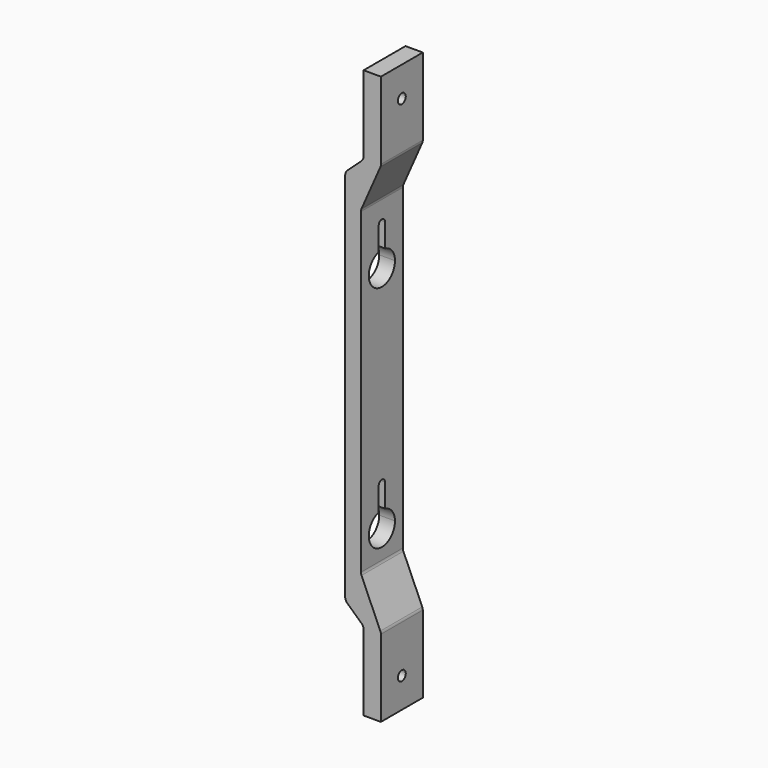
from build123d import *

# Parameters (mm, degrees)
F1_DEPTH = 40
F2_R     = 5
F3_R     = 5
F5_D     = 7.5
F7_DEPTH = 12


with BuildPart() as f1:
    # F0 (on Front) → F1 (new body)
    with BuildSketch(Plane.XZ):
        Polygon((8.02879, 156.936201), (-6, 144), (6, 144), (21.253023, 156.936201), (21.253023, 216.936201), (8.02879, 216.936201), align=None)
        Polygon((6, 144), (-6, 144), (-6, -144), (6, -144), (6, -122.299686), (6, 122.299686), align=None)
        Polygon((21.253023, 156.936201), (6, 144), (6, 122.299686), align=None)
        Polygon((6, -144), (-6, -144), (8.02879, -156.936201), (8.02879, -216.936201), (21.253023, -216.936201), (21.253023, -156.936201), align=None)
        Polygon((6, -122.299686), (6, -144), (21.253023, -156.936201), align=None)
    extrude(amount=F1_DEPTH)

    # F2
    f2_edges = [f1.edges().sort_by_distance(p)[0] for p in [
        (6, -20, -122.299686),
        (21.253023, -20, -156.936201),
        (8.02879, -20, -156.936201),
        (-6, -20, -144),
        (-6, -20, 144),
        (6, -20, 122.299686),
        (21.253023, -20, 156.936201),
    ]]
    fillet(f2_edges, radius=F2_R)

    # F3
    f3_edges = [f1.edges().sort_by_distance(p)[0] for p in [
        (8.02879, -20, 156.936201),
    ]]
    fillet(f3_edges, radius=F3_R)

    # F5 (through all)
    with Locations(Plane.YZ.offset(21.253023)):
        with Locations((-20, 194), (-20, -194)):
            Hole(F5_D / 2)

    # F6 (on face) → F7 (cut)
    with BuildSketch(Plane.YZ.offset(6)):
        with BuildLine():
            Line((-17, -100), (-17, -87.865339))
            ThreePointArc((-17, -87.865339), (-18.488918, -87.591671), (-20, -87.5))
            ThreePointArc((-20, -87.5), (-21.511082, -87.591671), (-23, -87.865339))
            Line((-23, -87.865339), (-23, -100))
            ThreePointArc((-23, -100), (-20, -103), (-17, -100))
        make_face()
        with BuildLine():
            ThreePointArc((-23, -87.865339), (-27.705518, -109.84251), (-7.5, -100))
            ThreePointArc((-7.5, -100), (-10.15749, -92.294482), (-17, -87.865339))
            Line((-17, -87.865339), (-17, -100))
            ThreePointArc((-17, -100), (-20, -103), (-23, -100))
            Line((-23, -100), (-23, -87.865339))
        make_face()
        with BuildLine():
            ThreePointArc((-23, 87.134661), (-27.705518, 65.15749), (-7.5, 75))
            ThreePointArc((-7.5, 75), (-10.15749, 82.705518), (-17, 87.134661))
            Line((-17, 87.134661), (-17, 75))
            ThreePointArc((-17, 75), (-20, 72), (-23, 75))
            Line((-23, 75), (-23, 87.134661))
        make_face()
        with BuildLine():
            Line((-17, 75), (-17, 87.134661))
            ThreePointArc((-17, 87.134661), (-18.488918, 87.408329), (-20, 87.5))
            ThreePointArc((-20, 87.5), (-21.511082, 87.408329), (-23, 87.134661))
            Line((-23, 87.134661), (-23, 75))
            ThreePointArc((-23, 75), (-20, 72), (-17, 75))
        make_face()
        with BuildLine():
            ThreePointArc((-20, 87.5), (-18.488918, 87.408329), (-17, 87.134661))
            Line((-17, 87.134661), (-17, 105))
            ThreePointArc((-17, 105), (-20, 108), (-23, 105))
            Line((-23, 105), (-23, 87.134661))
            ThreePointArc((-23, 87.134661), (-21.511082, 87.408329), (-20, 87.5))
        make_face()
        with BuildLine():
            ThreePointArc((-20, -87.5), (-18.488918, -87.591671), (-17, -87.865339))
            Line((-17, -87.865339), (-17, -70))
            ThreePointArc((-17, -70), (-20, -67), (-23, -70))
            Line((-23, -70), (-23, -87.865339))
            ThreePointArc((-23, -87.865339), (-21.511082, -87.591671), (-20, -87.5))
        make_face()
    extrude(amount=-F7_DEPTH, mode=Mode.SUBTRACT)


solid = f1.part
